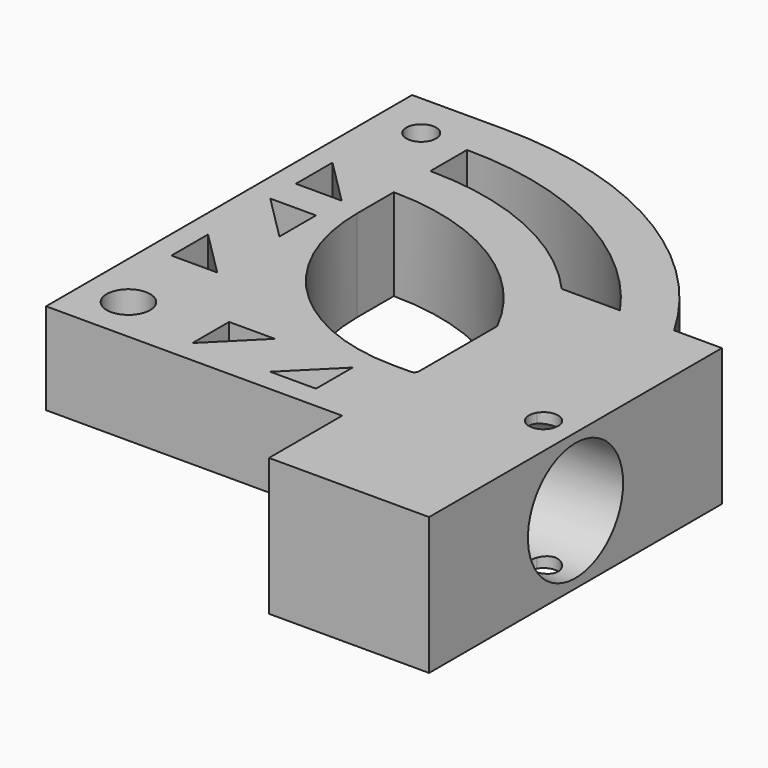
from build123d import *

# Parameters (mm, degrees)
F0_R     = 4.75
F1_DEPTH = 20
F2_DEPTH = 10
F3_R     = 13
F4_DEPTH = 25


with BuildPart() as f1:
    # F0 (on Top) → F1 (new body)
    with BuildSketch(Plane.XY):
        with BuildLine():
            Line((-8.6448206271, 31.9791635871), (-8.6448206271, 41.9791635871))
            ThreePointArc((-8.6448206271, 41.9791635871), (-14.4995413925, 41.6352029455), (-20.2737104175, 40.6080533775))
            Line((-20.2737104175, 40.6080533775), (-13.6448206271, 33.9791635871))
            Line((-13.6448206271, 33.9791635871), (-23.6448206271, 33.9791635871))
            Line((-23.6448206271, 33.9791635871), (-23.6448206271, 39.6761236579))
            ThreePointArc((-23.6448206271, 39.6761236579), (-26.1698127892, 38.8073030944), (-28.6448206271, 37.8049205367))
            Line((-28.6448206271, 37.8049205367), (-28.6448206271, -28.0208364129))
            Line((-28.6448206271, -28.0208364129), (-8.6448206271, -28.0208364129))
            Line((-8.6448206271, -28.0208364129), (35.0765389229, -28.0208364129))
            Line((35.0765389229, -28.0208364129), (36.0765389229, -28.0208364129))
            Line((36.0765389229, -28.0208364129), (36.0765389229, -7.0208364129))
            ThreePointArc((36.0765389229, -7.0208364129), (35.783645704, -7.7279431941), (35.0765389229, -8.0208364129))
            Line((35.0765389229, -8.0208364129), (31.3551793729, -8.0208364129))
            ThreePointArc((31.3551793729, -8.0208364129), (3.0709081254, 3.6948923396), (-8.6448206271, 31.9791635871))
        make_face()
        with Locations((-18.6448206271, -18.0208364129)):
            Circle(F0_R, mode=Mode.SUBTRACT)
        Polygon((-0.6448206271, -13.0208364129), (9.3551793729, -13.0208364129), (-0.6448206271, -23.0208364129), align=None, mode=Mode.SUBTRACT)
        Polygon((26.3551793729, -23.0208364129), (16.3551793729, -23.0208364129), (26.3551793729, -13.0208364129), align=None, mode=Mode.SUBTRACT)
        Polygon((-23.6448206271, -0.0208364129), (-23.6448206271, 9.9791635871), (-13.6448206271, -0.0208364129), align=None, mode=Mode.SUBTRACT)
        Polygon((-13.6448206271, 26.9791635871), (-13.6448206271, 16.9791635871), (-23.6448206271, 26.9791635871), align=None, mode=Mode.SUBTRACT)
        with BuildLine():
            Line((-8.6448206271, 41.9791635871), (-8.6448206271, 51.9791635871))
            ThreePointArc((-8.6448206271, 51.9791635871), (-18.7909393507, 51.1150771663), (-28.6448206271, 48.547706082))
            Line((-28.6448206271, 48.547706082), (-28.6448206271, 37.8049205367))
            ThreePointArc((-28.6448206271, 37.8049205367), (-26.1698127892, 38.8073030944), (-23.6448206271, 39.6761236579))
            Line((-23.6448206271, 39.6761236579), (-23.6448206271, 43.9791635871))
            Line((-23.6448206271, 43.9791635871), (-20.2737104175, 40.6080533775))
            ThreePointArc((-20.2737104175, 40.6080533775), (-14.4995413925, 41.6352029455), (-8.6448206271, 41.9791635871))
        make_face()
        with BuildLine():
            Line((-8.6448206271, 51.9791635871), (-8.6448206271, 61.9791635871))
            ThreePointArc((-8.6448206271, 61.9791635871), (-12.0320760881, 61.8971619884), (-15.4113955387, 61.651349314))
            ThreePointArc((-15.4113955387, 61.651349314), (-18.1852012194, 58.7618277327), (-21.6571207156, 60.7591028602))
            ThreePointArc((-21.6571207156, 60.7591028602), (-25.1727879958, 59.9999419909), (-28.6448206271, 59.0612029121))
            Line((-28.6448206271, 59.0612029121), (-28.6448206271, 48.547706082))
            ThreePointArc((-28.6448206271, 48.547706082), (-18.7909393507, 51.1150771663), (-8.6448206271, 51.9791635871))
        make_face()
        with BuildLine():
            Line((-8.6448206271, 61.9791635871), (-8.6448206271, 71.9791635871))
            ThreePointArc((-8.6448206271, 71.9791635871), (-18.7251640258, 71.3415392885), (-28.6448206271, 69.4388305112))
            Line((-28.6448206271, 69.4388305112), (-28.6448206271, 59.0612029121))
            ThreePointArc((-28.6448206271, 59.0612029121), (-25.1727879958, 59.9999419909), (-21.6571207156, 60.7591028602))
            ThreePointArc((-21.6571207156, 60.7591028602), (-19.2663207127, 65.1691851613), (-15.3948206271, 61.9791635871))
            ThreePointArc((-15.3948206271, 61.9791635871), (-15.398967, 61.8150470695), (-15.4113955387, 61.651349314))
            ThreePointArc((-15.4113955387, 61.651349314), (-12.0320760881, 61.8971619884), (-8.6448206271, 61.9791635871))
        make_face()
        with BuildLine():
            ThreePointArc((-28.6448206271, 69.4388305112), (-18.7251640258, 71.3415392885), (-8.6448206271, 71.9791635871))
            Line((-8.6448206271, 71.9791635871), (-28.6448206271, 71.9791635871))
            Line((-28.6448206271, 71.9791635871), (-28.6448206271, 69.4388305112))
        make_face()
        with BuildLine():
            ThreePointArc((60.6372116756, 31.9791635871), (31.3551793729, 61.2611958898), (-8.6448206271, 71.9791635871))
            Line((-8.6448206271, 71.9791635871), (-8.6448206271, 61.9791635871))
            ThreePointArc((-8.6448206271, 61.9791635871), (23.7588828649, 54.027531817), (48.8008058382, 31.9791635871))
            Line((48.8008058382, 31.9791635871), (60.6372116756, 31.9791635871))
        make_face()
        with BuildLine():
            ThreePointArc((36.0765389229, 31.9791635871), (15.8500768007, 46.7514193376), (-8.6448206271, 51.9791635871))
            Line((-8.6448206271, 51.9791635871), (-8.6448206271, 41.9791635871))
            ThreePointArc((-8.6448206271, 41.9791635871), (17.6417349788, 34.5117040047), (36.0765389229, 14.3398433621))
            Line((36.0765389229, 14.3398433621), (36.0765389229, 31.9791635871))
        make_face()
        with BuildLine():
            ThreePointArc((51.3551793729, -8.0208364129), (47.4055209106, 13.3884889735), (36.0765389229, 31.9791635871))
            Line((36.0765389229, 31.9791635871), (36.0765389229, 14.3398433621))
            ThreePointArc((36.0765389229, 14.3398433621), (40.0176288462, 3.4668096145), (41.3551793729, -8.0208364129))
            ThreePointArc((41.3551793729, -8.0208364129), (40.0176288462, -19.5084824403), (36.0765389229, -30.3815161879))
            Line((36.0765389229, -30.3815161879), (36.0765389229, -48.0208364129))
            ThreePointArc((36.0765389229, -48.0208364129), (47.4055209106, -29.4301617993), (51.3551793729, -8.0208364129))
        make_face()
        with BuildLine():
            ThreePointArc((61.3367884406, -6.4163451244), (57.898239576, 13.70521106), (48.8008058382, 31.9791635871))
            Line((48.8008058382, 31.9791635871), (36.0765389229, 31.9791635871))
            ThreePointArc((36.0765389229, 31.9791635871), (47.4055209106, 13.3884889735), (51.3551793729, -8.0208364129))
            ThreePointArc((51.3551793729, -8.0208364129), (47.4055209106, -29.4301617993), (36.0765389229, -48.0208364129))
            Line((36.0765389229, -48.0208364129), (48.8008058382, -48.0208364129))
            ThreePointArc((48.8008058382, -48.0208364129), (57.898239576, -29.7468838858), (61.3367884406, -9.6253277014))
            ThreePointArc((61.3367884406, -9.6253277014), (60.9015389229, -8.0208364129), (61.3367884406, -6.4163451244))
        make_face()
        with BuildLine():
            ThreePointArc((71.0765389229, -1.3496422544), (67.697860886, 15.891398518), (60.6372116756, 31.9791635871))
            Line((60.6372116756, 31.9791635871), (48.8008058382, 31.9791635871))
            ThreePointArc((48.8008058382, 31.9791635871), (57.898239576, 13.70521106), (61.3367884406, -6.4163451244))
            ThreePointArc((61.3367884406, -6.4163451244), (64.9077781239, -4.9565801588), (67.2515389229, -8.0208364129))
            ThreePointArc((67.2515389229, -8.0208364129), (64.9077781239, -11.085092667), (61.3367884406, -9.6253277014))
            ThreePointArc((61.3367884406, -9.6253277014), (57.898239576, -29.7468838858), (48.8008058382, -48.0208364129))
            Line((48.8008058382, -48.0208364129), (60.6372116756, -48.0208364129))
            ThreePointArc((60.6372116756, -48.0208364129), (67.697860886, -31.9330713438), (71.0765389229, -14.6920305714))
            Line((71.0765389229, -14.6920305714), (71.0765389229, -1.3496422544))
        make_face()
        with BuildLine():
            Line((71.0765389229, 31.9791635871), (60.6372116756, 31.9791635871))
            ThreePointArc((60.6372116756, 31.9791635871), (67.697860886, 15.891398518), (71.0765389229, -1.3496422544))
            Line((71.0765389229, -1.3496422544), (71.0765389229, 31.9791635871))
        make_face()
        with BuildLine():
            ThreePointArc((41.3551793729, -8.0208364129), (40.0176288462, 3.4668096145), (36.0765389229, 14.3398433621))
            Line((36.0765389229, 14.3398433621), (36.0765389229, -7.0208364129))
            Line((36.0765389229, -7.0208364129), (36.0765389229, -28.0208364129))
            Line((36.0765389229, -28.0208364129), (36.0765389229, -29.0208364129))
            Line((36.0765389229, -29.0208364129), (36.0765389229, -30.3815161879))
            ThreePointArc((36.0765389229, -30.3815161879), (40.0176288462, -19.5084824403), (41.3551793729, -8.0208364129))
        make_face()
        with BuildLine():
            ThreePointArc((71.0765389229, -14.6920305714), (67.697860886, -31.9330713438), (60.6372116756, -48.0208364129))
            Line((60.6372116756, -48.0208364129), (71.0765389229, -48.0208364129))
            Line((71.0765389229, -48.0208364129), (71.0765389229, -14.6920305714))
        make_face()
    extrude(amount=F1_DEPTH)

    # F0 (on Top) → F2 (join)
    with BuildSketch(Plane.XY):
        with BuildLine():
            ThreePointArc((41.3551793729, -8.0208364129), (40.0176288462, 3.4668096145), (36.0765389229, 14.3398433621))
            Line((36.0765389229, 14.3398433621), (36.0765389229, -7.0208364129))
            Line((36.0765389229, -7.0208364129), (36.0765389229, -28.0208364129))
            Line((36.0765389229, -28.0208364129), (36.0765389229, -29.0208364129))
            Line((36.0765389229, -29.0208364129), (36.0765389229, -30.3815161879))
            ThreePointArc((36.0765389229, -30.3815161879), (40.0176288462, -19.5084824403), (41.3551793729, -8.0208364129))
        make_face()
        with BuildLine():
            ThreePointArc((51.3551793729, -8.0208364129), (47.4055209106, 13.3884889735), (36.0765389229, 31.9791635871))
            Line((36.0765389229, 31.9791635871), (36.0765389229, 14.3398433621))
            ThreePointArc((36.0765389229, 14.3398433621), (40.0176288462, 3.4668096145), (41.3551793729, -8.0208364129))
            ThreePointArc((41.3551793729, -8.0208364129), (40.0176288462, -19.5084824403), (36.0765389229, -30.3815161879))
            Line((36.0765389229, -30.3815161879), (36.0765389229, -48.0208364129))
            ThreePointArc((36.0765389229, -48.0208364129), (47.4055209106, -29.4301617993), (51.3551793729, -8.0208364129))
        make_face()
        with BuildLine():
            ThreePointArc((61.3367884406, -6.4163451244), (57.898239576, 13.70521106), (48.8008058382, 31.9791635871))
            Line((48.8008058382, 31.9791635871), (36.0765389229, 31.9791635871))
            ThreePointArc((36.0765389229, 31.9791635871), (47.4055209106, 13.3884889735), (51.3551793729, -8.0208364129))
            ThreePointArc((51.3551793729, -8.0208364129), (47.4055209106, -29.4301617993), (36.0765389229, -48.0208364129))
            Line((36.0765389229, -48.0208364129), (48.8008058382, -48.0208364129))
            ThreePointArc((48.8008058382, -48.0208364129), (57.898239576, -29.7468838858), (61.3367884406, -9.6253277014))
            ThreePointArc((61.3367884406, -9.6253277014), (60.9015389229, -8.0208364129), (61.3367884406, -6.4163451244))
        make_face()
        with BuildLine():
            ThreePointArc((71.0765389229, -1.3496422544), (67.697860886, 15.891398518), (60.6372116756, 31.9791635871))
            Line((60.6372116756, 31.9791635871), (48.8008058382, 31.9791635871))
            ThreePointArc((48.8008058382, 31.9791635871), (57.898239576, 13.70521106), (61.3367884406, -6.4163451244))
            ThreePointArc((61.3367884406, -6.4163451244), (64.9077781239, -4.9565801588), (67.2515389229, -8.0208364129))
            ThreePointArc((67.2515389229, -8.0208364129), (64.9077781239, -11.085092667), (61.3367884406, -9.6253277014))
            ThreePointArc((61.3367884406, -9.6253277014), (57.898239576, -29.7468838858), (48.8008058382, -48.0208364129))
            Line((48.8008058382, -48.0208364129), (60.6372116756, -48.0208364129))
            ThreePointArc((60.6372116756, -48.0208364129), (67.697860886, -31.9330713438), (71.0765389229, -14.6920305714))
            Line((71.0765389229, -14.6920305714), (71.0765389229, -1.3496422544))
        make_face()
        with BuildLine():
            Line((71.0765389229, 31.9791635871), (60.6372116756, 31.9791635871))
            ThreePointArc((60.6372116756, 31.9791635871), (67.697860886, 15.891398518), (71.0765389229, -1.3496422544))
            Line((71.0765389229, -1.3496422544), (71.0765389229, 31.9791635871))
        make_face()
        with BuildLine():
            ThreePointArc((71.0765389229, -14.6920305714), (67.697860886, -31.9330713438), (60.6372116756, -48.0208364129))
            Line((60.6372116756, -48.0208364129), (71.0765389229, -48.0208364129))
            Line((71.0765389229, -48.0208364129), (71.0765389229, -14.6920305714))
        make_face()
    extrude(amount=-F2_DEPTH)

    # F3 (on face) → F4 (cut)
    with BuildSketch(Plane.YZ.offset(71.0765389229)):
        with Locations((-8.0208364129, 5)):
            Circle(F3_R)
    extrude(amount=-F4_DEPTH, mode=Mode.SUBTRACT)


solid = f1.part
